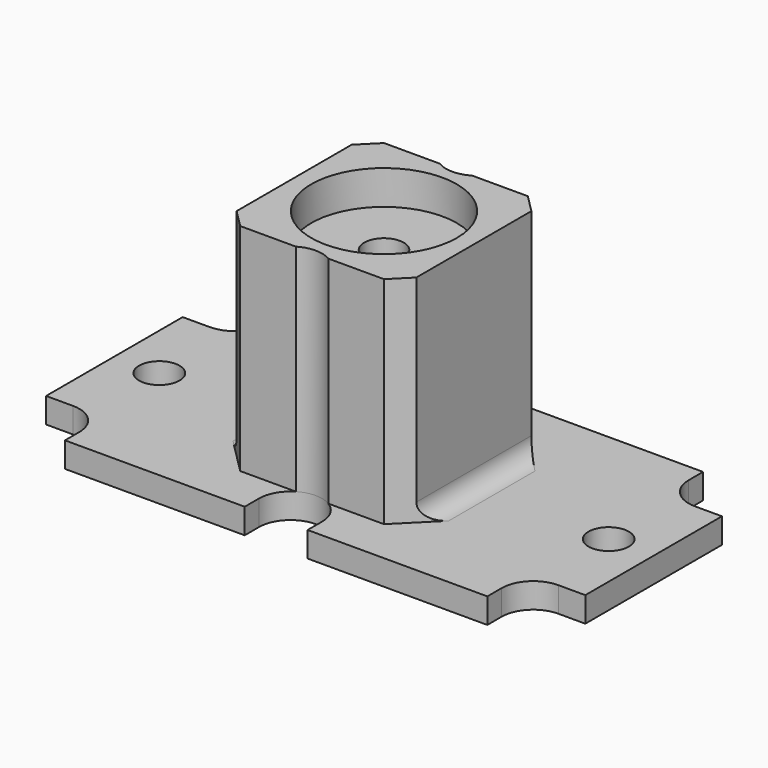
from build123d import *

# Parameters (mm, degrees)
SKETCH_W        = 60
SKETCH_H        = 30
SKETCH_R        = 2.25
SKETCH_R_2      = 2.2
PAD_DEPTH       = 2.8
SKETCH001_W     = 75
SKETCH001_H     = 45
POCKET_DEPTH    = 2.801
SKETCH002_R     = 2.2
PAD001_DEPTH    = 24
SKETCH003_R     = 8.1
POCKET001_DEPTH = 3.8
CHAMFER_SIZE    = 2
FILLET_R        = 2
FILLET001_R     = 2


with BuildPart() as part:
    # Sketch → Pad (new body)
    with BuildSketch(Plane.XY):
        Rectangle(SKETCH_W, SKETCH_H)
        with Locations((25, 0)):
            Circle(SKETCH_R, mode=Mode.SUBTRACT)
        with Locations((-25, 0)):
            Circle(SKETCH_R, mode=Mode.SUBTRACT)
        Circle(SKETCH_R_2, mode=Mode.SUBTRACT)
    extrude(amount=PAD_DEPTH)

    # Sketch001 → Pocket (cut, through all)
    with BuildSketch(Plane.XY.offset(2.8)):
        Rectangle(SKETCH001_W, SKETCH001_H)
        with BuildLine():
            ThreePointArc((-27, 9.5), (-24.525126, 10.525126), (-23.5, 13))
            Line((-23.5, 13), (-23.5, 18))
            Line((-23.5, 18), (-3.5, 18))
            Line((-3.5, 18), (-3.5, 13))
            ThreePointArc((-3.5, 13), (0, 9.5), (3.5, 13))
            Line((3.5, 13), (3.5, 18))
            Line((3.5, 18), (23.5, 18))
            Line((23.5, 18), (23.5, 13))
            ThreePointArc((23.5, 13), (24.525126, 10.525126), (27, 9.5))
            Line((27, 9.5), (32, 9.5))
            Line((32, 9.5), (32, -9.5))
            Line((32, -9.5), (27, -9.5))
            ThreePointArc((27, -9.5), (24.525128, -10.525124), (23.5, -12.999994))
            Line((23.5, -12.999994), (23.5, -17.999994))
            Line((23.5, -17.999994), (3.5, -17.999994))
            Line((3.5, -12.999994), (3.5, -17.999994))
            ThreePointArc((3.5, -12.999994), (-4e-06, -9.5), (-3.5, -13.000002))
            Line((-3.5, -13.000002), (-3.5, -18.000002))
            Line((-23.499999, -18.000002), (-3.5, -18.000002))
            Line((-23.499999, -18.000002), (-23.499999, -13.000002))
            ThreePointArc((-23.499999, -13.000002), (-24.525131, -10.525138), (-27, -9.500018))
            Line((-27, -9.500018), (-32, -9.500018))
            Line((-32, -9.500018), (-32, 9.5))
            Line((-32, 9.5), (-27, 9.5))
        make_face(mode=Mode.SUBTRACT)
    extrude(amount=-POCKET_DEPTH, mode=Mode.SUBTRACT)

    # Sketch002 → Pad001 (new body)
    with BuildSketch(Plane.XY.offset(2.8)):
        with BuildLine():
            Line((-10, -10), (-10, 10))
            Line((-10, 10), (-1.802776, 10))
            ThreePointArc((-1.802776, 10), (0, 9.5), (1.802776, 10))
            Line((1.802776, 10), (10, 10))
            Line((10, 10), (10, -10))
            Line((1.802776, -10), (10, -10))
            ThreePointArc((1.802776, -10), (0, -9.5), (-1.802776, -10))
            Line((-1.802776, -10), (-10, -10))
        make_face()
        Circle(SKETCH002_R, mode=Mode.SUBTRACT)
    extrude(amount=PAD001_DEPTH)

    # Sketch003 → Pocket001 (cut)
    with BuildSketch(Plane.XY.offset(26.8)):
        Circle(SKETCH003_R)
    extrude(amount=-POCKET001_DEPTH, mode=Mode.SUBTRACT)

    # Chamfer
    chamfer_edges = [part.edges().sort_by_distance(p)[0] for p in [
        (-10, -10, 14.8),
        (10, -10, 14.8),
        (-10, 10, 14.8),
        (10, 10, 14.8),
    ]]
    chamfer(chamfer_edges, length=CHAMFER_SIZE)

    # Fillet
    fillet_edges = [part.edges().sort_by_distance(p)[0] for p in [
        (-10, 0, 2.8),
    ]]
    fillet(fillet_edges, radius=FILLET_R)

    # Fillet001
    fillet001_edges = [part.edges().sort_by_distance(p)[0] for p in [
        (10, 0, 2.8),
    ]]
    fillet(fillet001_edges, radius=FILLET001_R)


solid = part.part
